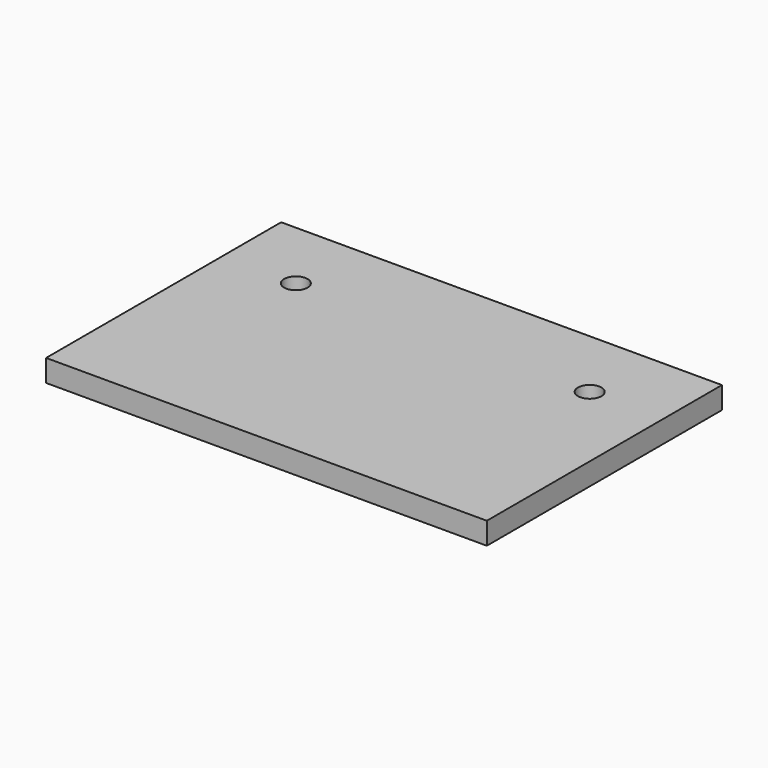
from build123d import *

# Parameters (mm, degrees)
F0_W     = 60
F0_H     = 40
F1_DEPTH = 3
F3_D     = 3.2
F3_DEPTH = 5


with BuildPart() as f1:
    # F0 (on Top) → F1 (new body)
    with BuildSketch(Plane.XY):
        Rectangle(F0_W, F0_H)
    extrude(amount=F1_DEPTH)

    # F3
    with Locations(Plane.XY.offset(3)):
        with Locations((-20, 10), (20, 10)):
            Hole(F3_D / 2, depth=F3_DEPTH)


solid = f1.part
